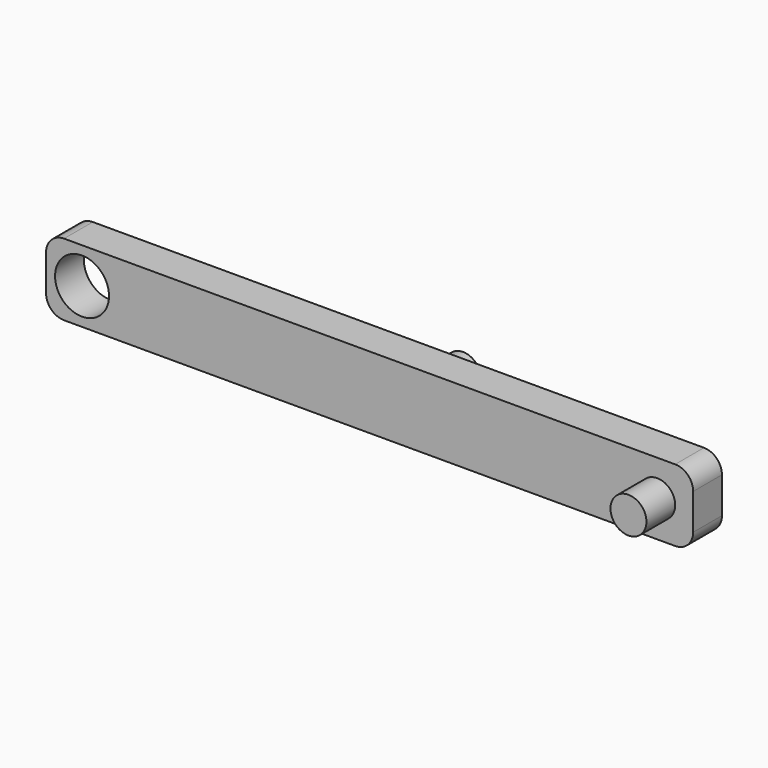
from build123d import *

# Parameters (mm, degrees)
F0_R     = 9.525
F1_DEPTH = 6.35
F2_R     = 6.35
F3_DEPTH = 12.7
F4_R     = 6.35
F5_DEPTH = 12.7


with BuildPart() as f1:
    # F0 (on Front) → F1 (new body, symmetric)
    with BuildSketch(Plane.XZ):
        with BuildLine():
            ThreePointArc((101.6, 6.35), (99.740128, 10.840128), (95.25, 12.7))
            Line((95.25, 12.7), (-120.65, 12.7))
            ThreePointArc((-120.65, 12.7), (-125.140128, 10.840128), (-127, 6.35))
            Line((-127, 6.35), (-127, -6.35))
            ThreePointArc((-127, -6.35), (-125.140128, -10.840128), (-120.65, -12.7))
            Line((-120.65, -12.7), (95.25, -12.7))
            ThreePointArc((95.25, -12.7), (99.740128, -10.840128), (101.6, -6.35))
            Line((101.6, -6.35), (101.6, 6.35))
        make_face()
        with Locations((-114.3, 0)):
            Circle(F0_R, mode=Mode.SUBTRACT)
    extrude(amount=F1_DEPTH, both=True)

    # F2 (on face) → F3 (join)
    with BuildSketch(Plane.XZ.offset(6.35)):
        with Locations((88.9, 0)):
            Circle(F2_R)
    extrude(amount=F3_DEPTH)

    # F4 (on face) → F5 (join)
    with BuildSketch(Plane(origin=(0, 6.35, 0), x_dir=(-1, 0, 0), z_dir=(0, 1, 0))):
        Circle(F4_R)
    extrude(amount=F5_DEPTH)


solid = f1.part
